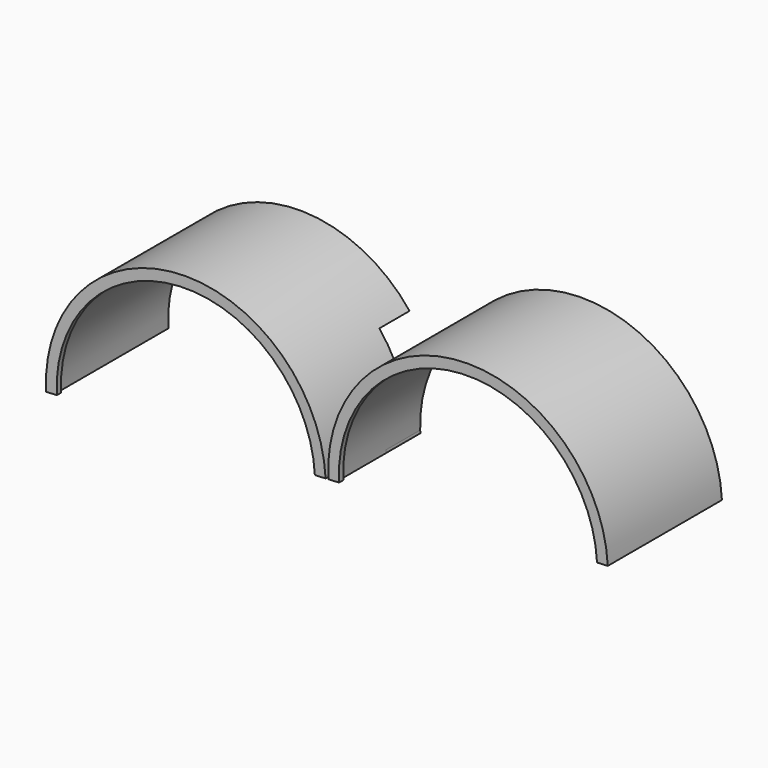
from build123d import *

# Parameters (mm, degrees)
CYLINDER158_R             = 1.6
CYLINDER158_DEPTH         = 9
CYLINDER159_R             = 1.6
CYLINDER159_DEPTH         = 9
CYLINDER156_R             = 1.6
CYLINDER156_DEPTH         = 9
CYLINDER157_R             = 1.6
CYLINDER157_DEPTH         = 9
BOX068_W                  = 59
BOX068_H                  = 20
BOX068_DEPTH              = 32
BOX068_PLACEMENT_ANGLE    = 3
BOX066_W                  = 128
BOX066_H                  = 3
BOX066_DEPTH              = 35
BOX066_PLACEMENT_ANGLE    = 3
CYLINDER147_W             = 52
CYLINDER147_H             = 3
CYLINDER147_ANGLE         = 180
CYLINDER147_ROLL_ANGLE    = 90
CYLINDER147_PITCH_ANGLE   = -3
BOX067_W                  = 128
BOX067_H                  = 3
BOX067_DEPTH              = 35
BOX067_PLACEMENT_ANGLE    = 3
CYLINDER148_W             = 52
CYLINDER148_H             = 3
CYLINDER148_ANGLE         = 180
CYLINDER148_ROLL_ANGLE    = 90
CYLINDER148_PITCH_ANGLE   = -3
BOX065_W                  = 7
BOX065_H                  = 30
BOX065_DEPTH              = 10
BOX065_PLACEMENT_ANGLE    = 3
CYLINDER144_W             = 49
CYLINDER144_H             = 53
CYLINDER144_ANGLE         = 180
CYLINDER143_W             = 52
CYLINDER143_H             = 53
CYLINDER143_ANGLE         = 180
CYLINDER146_W             = 48
CYLINDER146_H             = 2
CYLINDER146_ANGLE         = 180
CYLINDER145_W             = 52
CYLINDER145_H             = 2
CYLINDER145_ANGLE         = 180
FUSION121_PLACEMENT_ANGLE = 3
FILLET033_R               = 0.99


with BuildPart() as cylinder158:
    # Cylinder158 → Cylinder158 (new body)
    with BuildSketch(Plane(origin=(555, -5, 10), x_dir=(1, 0, 0), z_dir=(0, -1, 0))):
        Circle(CYLINDER158_R)
    extrude(amount=CYLINDER158_DEPTH)


with BuildPart() as fusion134:
    # Cylinder159 → Cylinder159 (new body)
    with BuildSketch(Plane(origin=(450, -5, 10), x_dir=(1, 0, 0), z_dir=(0, -1, 0))):
        Circle(CYLINDER159_R)
    extrude(amount=CYLINDER159_DEPTH)

    # Fusion134: union Cylinder158
    add(cylinder158.part)


with BuildPart() as fusion134_1:
    # Fusion134 placement: moved
    add(fusion134.part.moved(Location((9, 0, 0))))


with BuildPart() as cylinder156:
    # Cylinder156 → Cylinder156 (new body)
    with BuildSketch(Plane(origin=(555, -5, 10), x_dir=(1, 0, 0), z_dir=(0, -1, 0))):
        Circle(CYLINDER156_R)
    extrude(amount=CYLINDER156_DEPTH)


with BuildPart() as fusion136:
    # Cylinder157 → Cylinder157 (new body)
    with BuildSketch(Plane(origin=(450, -5, 10), x_dir=(1, 0, 0), z_dir=(0, -1, 0))):
        Circle(CYLINDER157_R)
    extrude(amount=CYLINDER157_DEPTH)

    # Fusion133: union Cylinder156
    add(cylinder156.part)


with BuildPart() as fusion136_1:
    # Fusion133 placement: moved
    add(fusion136.part.moved(Location((-9, 0, 0))))

    # Fusion136: union Fusion134
    add(fusion134_1.part)


with BuildPart() as cube047:
    # Box068 → Box068 (new body)
    with BuildSketch(Plane.XY):
        with Locations((29.5, 10)):
            Rectangle(BOX068_W, BOX068_H)
    extrude(amount=BOX068_DEPTH)


with BuildPart() as cube047_1:
    # Box068 placement: moved
    add(cube047.part.moved(Location((473, -20, -36))).rotate(Axis((473, -20, -36), (0, -1, 0)), BOX068_PLACEMENT_ANGLE))


with BuildPart() as cube045:
    # Box066 → Box066 (new body)
    with BuildSketch(Plane.XY):
        with Locations((64, 1.5)):
            Rectangle(BOX066_W, BOX066_H)
    extrude(amount=BOX066_DEPTH)


with BuildPart() as cube045_1:
    # Box066 placement: moved
    add(cube045.part.moved(Location((382, -9, -40.8))).rotate(Axis((382, -9, -40.8), (0, -1, 0)), BOX066_PLACEMENT_ANGLE))


with BuildPart() as cut079:
    # Cylinder147 → Cylinder147 (revolve)
    with BuildSketch(Plane.XZ):
        with Locations((26, 1.5)):
            Rectangle(CYLINDER147_W, CYLINDER147_H)
    revolve(axis=Axis((0, 0, 0), (0, 0, 1)), revolution_arc=CYLINDER147_ANGLE)


with BuildPart() as cut079_1:
    # Cylinder147 roll: moved
    add(cut079.part.rotate(Axis((0, 0, 0), (1, 0, 0)), CYLINDER147_ROLL_ANGLE))


with BuildPart() as cut079_2:
    # Cylinder147 pitch: moved
    add(cut079_1.part.rotate(Axis((0, 0, 0), (0, 1, 0)), CYLINDER147_PITCH_ANGLE))


with BuildPart() as cut079_3:
    # Cylinder147 placement: moved
    add(cut079_2.part.moved(Location((448.581401, -6, -35.39126))))

    # Cut079: cut Cube045
    add(cube045_1.part, mode=Mode.SUBTRACT)


with BuildPart() as cut079_4:
    # Cut079 placement: moved
    add(cut079_3.part.moved(Location((0.48, 0, -0.5))))


with BuildPart() as cube046:
    # Box067 → Box067 (new body)
    with BuildSketch(Plane.XY):
        with Locations((64, 1.5)):
            Rectangle(BOX067_W, BOX067_H)
    extrude(amount=BOX067_DEPTH)


with BuildPart() as cube046_1:
    # Box067 placement: moved
    add(cube046.part.moved(Location((382, -9, -40.8))).rotate(Axis((382, -9, -40.8), (0, -1, 0)), BOX067_PLACEMENT_ANGLE))


with BuildPart() as cut080:
    # Cylinder148 → Cylinder148 (revolve)
    with BuildSketch(Plane.XZ):
        with Locations((26, 1.5)):
            Rectangle(CYLINDER148_W, CYLINDER148_H)
    revolve(axis=Axis((0, 0, 0), (0, 0, 1)), revolution_arc=CYLINDER148_ANGLE)


with BuildPart() as cut080_1:
    # Cylinder148 roll: moved
    add(cut080.part.rotate(Axis((0, 0, 0), (1, 0, 0)), CYLINDER148_ROLL_ANGLE))


with BuildPart() as cut080_2:
    # Cylinder148 pitch: moved
    add(cut080_1.part.rotate(Axis((0, 0, 0), (0, 1, 0)), CYLINDER148_PITCH_ANGLE))


with BuildPart() as cut080_3:
    # Cylinder148 placement: moved
    add(cut080_2.part.moved(Location((448.581401, -6, -35.39126))))

    # Cut080: cut Cube046
    add(cube046_1.part, mode=Mode.SUBTRACT)


with BuildPart() as cut080_4:
    # Cut080 placement: moved
    add(cut080_3.part.moved(Location((105.48, 0, 5))))


with BuildPart() as cube044:
    # Box065 → Box065 (new body)
    with BuildSketch(Plane.XY):
        with Locations((3.5, 15)):
            Rectangle(BOX065_W, BOX065_H)
    extrude(amount=BOX065_DEPTH)


with BuildPart() as cube044_1:
    # Box065 placement: moved
    add(cube044.part.moved(Location((498, -39, -32.8))).rotate(Axis((498, -39, -32.8), (0, -1, 0)), BOX065_PLACEMENT_ANGLE))


with BuildPart() as cylinder144:
    # Cylinder144 → Cylinder144 (revolve)
    with BuildSketch(Plane(origin=(450, -9, -42), x_dir=(1, 0, 0), z_dir=(0, 0, -1))):
        with Locations((24.5, 26.5)):
            Rectangle(CYLINDER144_W, CYLINDER144_H)
    revolve(axis=Axis((450, -9, -42), (0, -1, 0)), revolution_arc=CYLINDER144_ANGLE)


with BuildPart() as cylinder143:
    # Cylinder143 → Cylinder143 (revolve)
    with BuildSketch(Plane(origin=(450, -9, -42), x_dir=(1, 0, 0), z_dir=(0, 0, -1))):
        with Locations((26, 26.5)):
            Rectangle(CYLINDER143_W, CYLINDER143_H)
    revolve(axis=Axis((450, -9, -42), (0, -1, 0)), revolution_arc=CYLINDER143_ANGLE)


with BuildPart() as cut077:
    # Cut077 base: copy of Cylinder143
    add(cylinder143.part)

    # Cut077: cut Cylinder144
    add(cylinder144.part, mode=Mode.SUBTRACT)


with BuildPart() as cut077_1:
    # Cut077 placement: moved
    add(cut077.part.moved(Location((0, 0, 10))))


with BuildPart() as cylinder146:
    # Cylinder146 → Cylinder146 (revolve)
    with BuildSketch(Plane(origin=(450, -12, -42), x_dir=(1, 0, 0), z_dir=(0, 0, -1))):
        with Locations((24, 1)):
            Rectangle(CYLINDER146_W, CYLINDER146_H)
    revolve(axis=Axis((450, -12, -42), (0, -1, 0)), revolution_arc=CYLINDER146_ANGLE)


with BuildPart() as cylinder145:
    # Cylinder145 → Cylinder145 (revolve)
    with BuildSketch(Plane(origin=(450, -12, -42), x_dir=(1, 0, 0), z_dir=(0, 0, -1))):
        with Locations((26, 1)):
            Rectangle(CYLINDER145_W, CYLINDER145_H)
    revolve(axis=Axis((450, -12, -42), (0, -1, 0)), revolution_arc=CYLINDER145_ANGLE)


with BuildPart() as fusion120:
    # Cut078 base: copy of Cylinder145
    add(cylinder145.part)

    # Cut078: cut Cylinder146
    add(cylinder146.part, mode=Mode.SUBTRACT)


with BuildPart() as fusion120_1:
    # Cut078 placement: moved
    add(fusion120.part.moved(Location((0, -48, 10))))

    # Fusion120: union Cut077
    add(cut077_1.part)


with BuildPart() as cut075:
    # Cut075 base: copy of Cylinder143
    add(cylinder143.part)

    # Cut075: cut Cylinder144
    add(cylinder144.part, mode=Mode.SUBTRACT)


with BuildPart() as cut075_1:
    # Cut075 placement: moved
    add(cut075.part.moved(Location((0, 0, 10))))


with BuildPart() as fender_lh:
    # Cut076 base: copy of Cylinder145
    add(cylinder145.part)

    # Cut076: cut Cylinder146
    add(cylinder146.part, mode=Mode.SUBTRACT)


with BuildPart() as fender_lh_1:
    # Cut076 placement: moved
    add(fender_lh.part.moved(Location((0, -48, 10))))

    # Fusion119: union Cut075
    add(cut075_1.part)


with BuildPart() as fender_lh_2:
    # Fusion119 placement: moved
    add(fender_lh_1.part.moved(Location((105, 0, 0))))

    # Fusion121: union Fusion120
    add(fusion120_1.part)


with BuildPart() as fender_lh_3:
    # Fusion121 placement: moved
    add(fender_lh_2.part.moved(Location((-2, 0, -27))).rotate(Axis((-2, 0, -27), (0, -1, 0)), FUSION121_PLACEMENT_ANGLE))

    # Fusion122: union Cube044
    add(cube044_1.part)


with BuildPart() as fender_lh_4:
    # Fusion122 placement: moved
    add(fender_lh_3.part.moved(Location((0, 3, 0))))

    # Fusion123: union Cut079, Cut080
    add(cut079_4.part)
    add(cut080_4.part)

    # Cut081: cut Cube047
    add(cube047_1.part, mode=Mode.SUBTRACT)

    # Fillet033
    fillet033_edges = [fender_lh_4.edges().sort_by_distance(p)[0] for p in [
        (551.349681, -57, 19.023158),
        (446.493579, -57, 13.527882),
    ]]
    fillet(fillet033_edges, radius=FILLET033_R)


with BuildPart() as fender_lh_5:
    # Fillet033 placement: moved
    add(fender_lh_4.part.moved(Location((0, -3, 2))))

    # Cut084: cut Fusion136
    add(fusion136_1.part, mode=Mode.SUBTRACT)


solid = fender_lh_5.part
